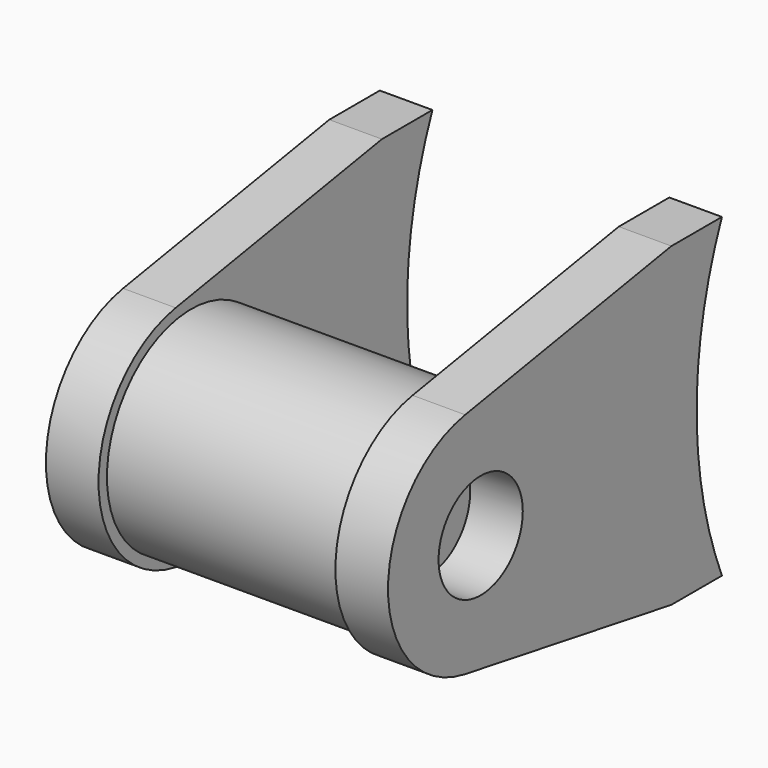
from build123d import *

# Parameters (mm, degrees)
F0_R     = 12.7
F1_DEPTH = 14.2875
F2_R     = 12.7
F3_DEPTH = 6.35
F5_D     = 12.7
F5_DEPTH = 12.7
F5_TIP   = 3.8154649308


with BuildPart() as f1:
    # F0 (on Right) → F1 (new body, symmetric)
    with BuildSketch(Plane.YZ):
        with Locations((-25.6147123873, 0)):
            Circle(F0_R)
    extrude(amount=F1_DEPTH, both=True)

    # F2 (on face) → F3 (join)
    with BuildSketch(Plane.YZ.offset(14.2875)):
        with BuildLine():
            Line((10.7647620756, 19.05), (3.1447620756, 19.05))
            Line((3.1447620756, 19.05), (3.1447620756, -19.05))
            Line((3.1447620756, -19.05), (10.7647620756, -19.05))
            ThreePointArc((10.7647620756, -19.05), (6.9547620756, 0), (10.7647620756, 19.05))
        make_face()
        with BuildLine():
            Line((3.1447620756, -19.05), (3.1447620756, 19.05))
            Line((3.1447620756, 19.05), (-27.951915173, 13.7731036131))
            ThreePointArc((-27.951915173, 13.7731036131), (-16.6005519416, 10.672666558), (-11.6447123873, 0))
            ThreePointArc((-11.6447123873, 0), (-16.6005519416, -10.672666558), (-27.951915173, -13.7731036131))
            Line((-27.951915173, -13.7731036131), (3.1447620756, -19.05))
        make_face()
        with BuildLine():
            ThreePointArc((-11.6447123873, 0), (-16.6005519416, 10.672666558), (-27.951915173, 13.7731036131))
            ThreePointArc((-27.951915173, 13.7731036131), (-39.5847123873, 0), (-27.951915173, -13.7731036131))
            ThreePointArc((-27.951915173, -13.7731036131), (-16.6005519416, -10.672666558), (-11.6447123873, 0))
        make_face()
        with Locations((-25.6147123873, 0)):
            Circle(F2_R, mode=Mode.SUBTRACT)
        with Locations((-25.6147123873, 0)):
            Circle(F2_R)
    extrude(amount=F3_DEPTH)

    # F4: F1 across plane


with BuildPart() as f1_1:
    add(f1.part)
    add(f1.part.mirror(Plane.YZ))

    # F5 (one way)
    with BuildSketch(Plane(origin=(14.2875, 0, 0), x_dir=(0, 1, 0), z_dir=(-1, 0, 0))):
        with Locations((-25.6147123873, 0)):
            Circle(F5_D / 2)
    extrude(amount=-F5_DEPTH, mode=Mode.SUBTRACT)
    with Locations(Plane(origin=(14.2875, 0, 0), x_dir=(0, 1, 0), z_dir=(-1, 0, 0))):
        with Locations((-25.6147123873, 0)):
            with Locations((0, 0, -(F5_DEPTH + F5_TIP / 2))):  # 118° drill point
                Cone(0, F5_D / 2, F5_TIP, mode=Mode.SUBTRACT)


solid = f1_1.part
